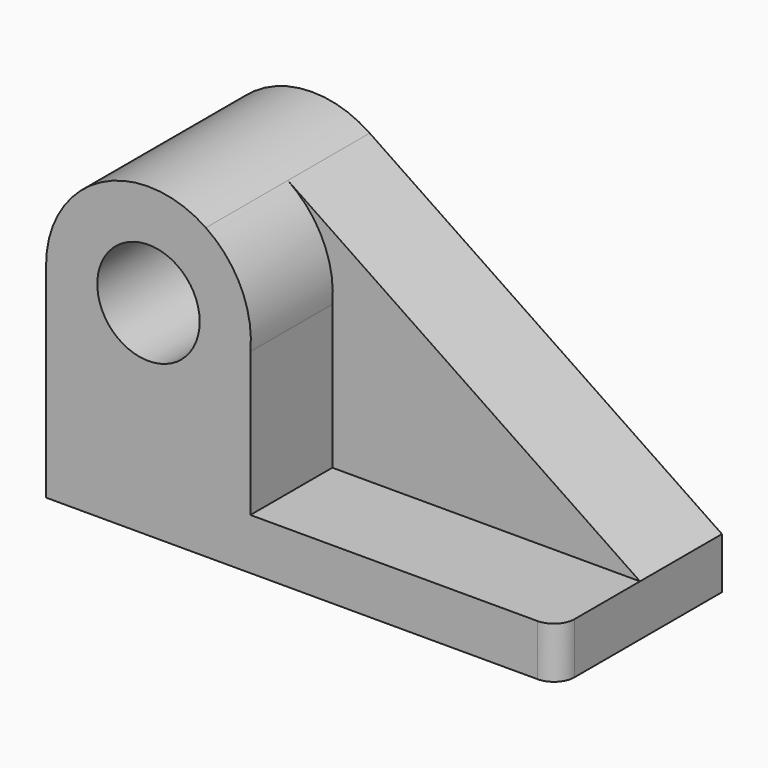
from build123d import *

# Parameters (mm, degrees)
F0_R     = 12.7
F1_DEPTH = 25.4
F2_R     = 12.7
F3_DEPTH = 25.4
F4_R     = 5.08


with BuildPart() as f1:
    # F0 (on Front) → F1 (new body)
    with BuildSketch(Plane.XZ):
        with BuildLine():
            Line((75.0824, -18.542002), (-12.279727, 40.592327))
            ThreePointArc((-12.279727, 40.592327), (-38.423859, 41.994598), (-51.9176, 19.557998))
            Line((-51.9176, 19.557998), (-51.9176, -31.242002))
            Line((-51.9176, -31.242002), (75.0824, -31.242002))
            Line((75.0824, -31.242002), (75.0824, -18.542002))
        make_face()
        with Locations((-26.5176, 19.557998)):
            Circle(F0_R, mode=Mode.SUBTRACT)
    extrude(amount=F1_DEPTH)

    # F2 (on face) → F3 (join)
    with BuildSketch(Plane.XZ.offset(25.4)):
        with BuildLine():
            Line((75.0824, -31.242002), (75.0824, -18.542002))
            Line((75.0824, -18.542002), (-1.233405, -18.542002))
            Line((-1.233405, -18.542002), (-1.233405, 17.13529))
            ThreePointArc((-1.233405, 17.13529), (-3.538118, 30.379431), (-12.279727, 40.592327))
            ThreePointArc((-12.279727, 40.592327), (-38.423859, 41.994598), (-51.9176, 19.557998))
            Line((-51.9176, 19.557998), (-51.9176, -18.542002))
            Line((-51.9176, -18.542002), (-51.9176, -31.242002))
            Line((-51.9176, -31.242002), (75.0824, -31.242002))
        make_face()
        with Locations((-26.5176, 19.557998)):
            Circle(F2_R, mode=Mode.SUBTRACT)
    extrude(amount=F3_DEPTH)

    # F4
    f4_edges = [f1.edges().sort_by_distance(p)[0] for p in [
        (75.0824, -50.8, -24.892002),
    ]]
    fillet(f4_edges, radius=F4_R)


solid = f1.part
